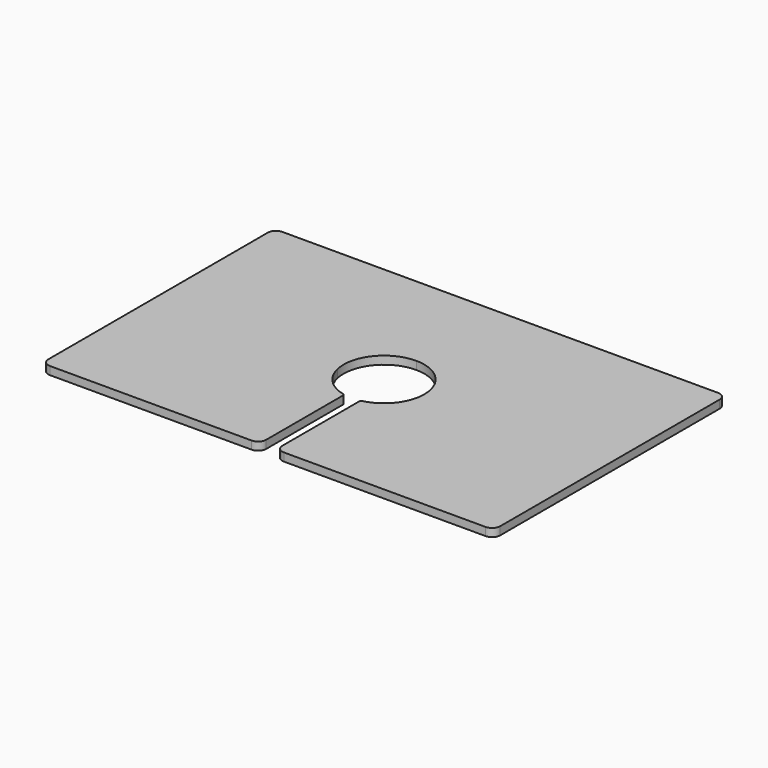
from build123d import *

# Parameters (mm, degrees)
F1_DEPTH = 5
F2_R     = 5
F3_R     = 1


with BuildPart() as f1:
    # F0 (on Top) → F1 (new body)
    with BuildSketch(Plane.XY):
        with BuildLine():
            Line((140, 0), (0, 0))
            Line((0, 0), (0, -95.548943))
            Line((0, -95.548943), (115.623593, -95.548943))
            ThreePointArc((115.623593, -95.548943), (120.458716, -74.40711), (140, -65))
            Line((140, -65), (140, 0))
        make_face()
        with BuildLine():
            Line((280, 0), (140, 0))
            Line((140, 0), (140, -65))
            ThreePointArc((140, -65), (157.67767, -72.32233), (165, -90))
            ThreePointArc((165, -90), (164.843613, -92.791936), (164.376407, -95.548943))
            Line((164.376407, -95.548943), (280, -95.548943))
            Line((280, -95.548943), (280, 0))
        make_face()
        with BuildLine():
            Line((280, -180), (280, -95.548943))
            Line((280, -95.548943), (164.376407, -95.548943))
            ThreePointArc((164.376407, -95.548943), (157.478004, -107.875105), (145, -114.494897))
            Line((145, -114.494897), (145, -180))
            Line((145, -180), (280, -180))
        make_face()
        with BuildLine():
            Line((115.623593, -95.548943), (0, -95.548943))
            Line((0, -95.548943), (0, -180))
            Line((0, -180), (135, -180))
            Line((135, -180), (135, -114.494897))
            ThreePointArc((135, -114.494897), (122.521996, -107.875105), (115.623593, -95.548943))
        make_face()
    extrude(amount=F1_DEPTH)

    # F2
    f2_edges = [f1.edges().sort_by_distance(p)[0] for p in [
        (135, -180, 2.5),
        (145, -180, 2.5),
        (280, -180, 2.5),
        (0, -180, 2.5),
        (280, 0, 2.5),
        (0, 0, 2.5),
    ]]
    fillet(f2_edges, radius=F2_R)

    # F3
    f3_edges = [f1.edges().sort_by_distance(p)[0] for p in [
        (135, -114.494897, 2.5),
        (145, -114.494897, 2.5),
    ]]
    fillet(f3_edges, radius=F3_R)


solid = f1.part
